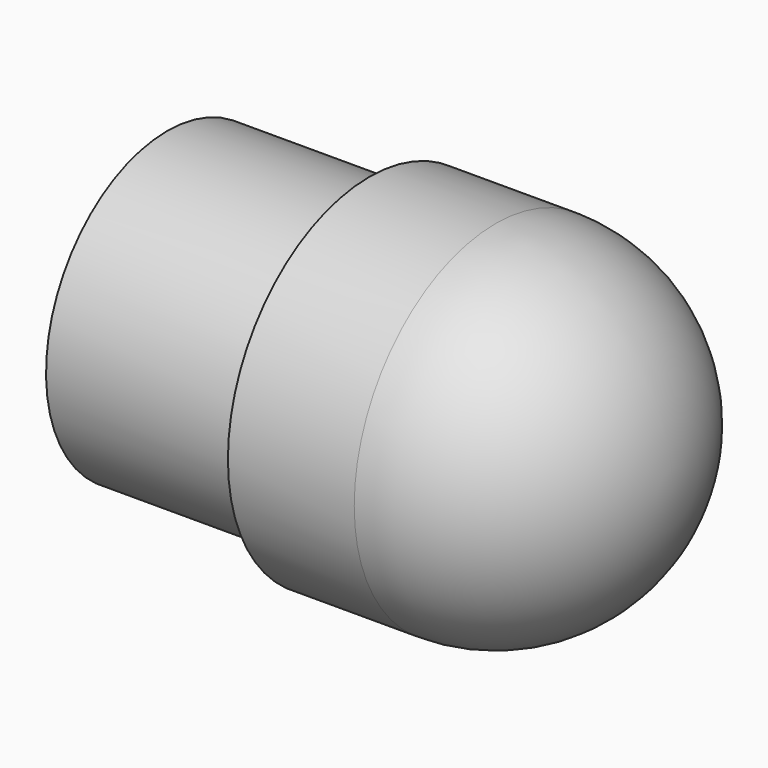
from build123d import *


with BuildPart() as f1:
    # F0 (on Front) → F1 (revolve)
    with BuildSketch(Plane.XZ):
        with BuildLine():
            ThreePointArc((-17.5, 0), (-16.201851746, 6.6143782777), (-12.5, 12.2474487139))
            Line((-12.5, 12.2474487139), (-12.5, 15))
            Line((-12.5, 15), (-32.5, 15))
            Line((-32.5, 15), (-32.5, 0))
            Line((-32.5, 0), (-17.5, 0))
        make_face()
        with BuildLine():
            Line((-12.5, 0), (-12.5, 12.2474487139))
            ThreePointArc((-12.5, 12.2474487139), (-16.201851746, 6.6143782777), (-17.5, 0))
            Line((-17.5, 0), (-12.5, 0))
        make_face()
        with BuildLine():
            ThreePointArc((-12.5, 12.2474487139), (-6.7793675039, 16.1335109709), (0, 17.5))
            Line((0, 17.5), (-12.5, 17.5))
            Line((-12.5, 17.5), (-12.5, 15))
            Line((-12.5, 15), (-12.5, 12.2474487139))
        make_face()
        with BuildLine():
            Line((0, 0), (0, 17.5))
            ThreePointArc((0, 17.5), (-6.7793675039, 16.1335109709), (-12.5, 12.2474487139))
            Line((-12.5, 12.2474487139), (-12.5, 0))
            Line((-12.5, 0), (0, 0))
        make_face()
        with BuildLine():
            Line((0, 0), (17.5, 0))
            ThreePointArc((17.5, 0), (12.3743686708, 12.3743686708), (0, 17.5))
            Line((0, 17.5), (0, 0))
        make_face()
    revolve(axis=Axis((-16.8521418733, 0, 0), (-1, 0, 0)))


solid = f1.part
